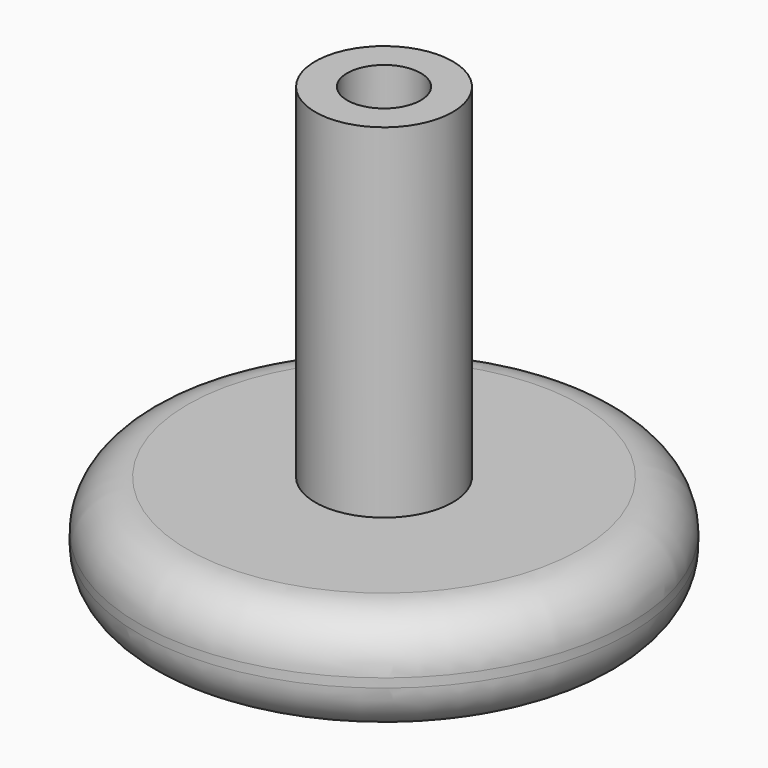
from build123d import *

# Parameters (mm, degrees)
F2_R     = 1.5875
F3_DEPTH = 11.1125
F4_R     = 4.7625
F5_DEPTH = 9.525


with BuildPart() as f1:
    # F0 (on Front) → F1 (revolve)
    with BuildSketch(Plane.XZ):
        with BuildLine():
            Line((0, 63.5), (0, 0))
            Line((0, 0), (5.658861, 0))
            Line((5.658861, 0), (8.89, 5.187289))
            Line((8.89, 5.187289), (25.4, 5.187289))
            ThreePointArc((25.4, 5.187289), (29.890128, 7.047161), (31.75, 11.537289))
            Line((31.75, 11.537289), (31.75, 12.7))
            ThreePointArc((31.75, 12.7), (29.890128, 17.190128), (25.4, 19.05))
            Line((25.4, 19.05), (8.89, 19.05))
            Line((8.89, 19.05), (8.89, 63.5))
            Line((8.89, 63.5), (0, 63.5))
        make_face()
    revolve(axis=Axis((0, 0, 31.75), (0, 0, -1)))

    # F2 (on face) → F3 (cut)
    with BuildSketch(Plane(origin=(0, 0, 0), x_dir=(1, 0, 0), z_dir=(0, 0, -1))):
        Circle(F2_R)
    extrude(amount=-F3_DEPTH, mode=Mode.SUBTRACT)

    # F4 (on face) → F5 (cut)
    with BuildSketch(Plane.XY.offset(63.5)):
        Circle(F4_R)
    extrude(amount=-F5_DEPTH, mode=Mode.SUBTRACT)


solid = f1.part
